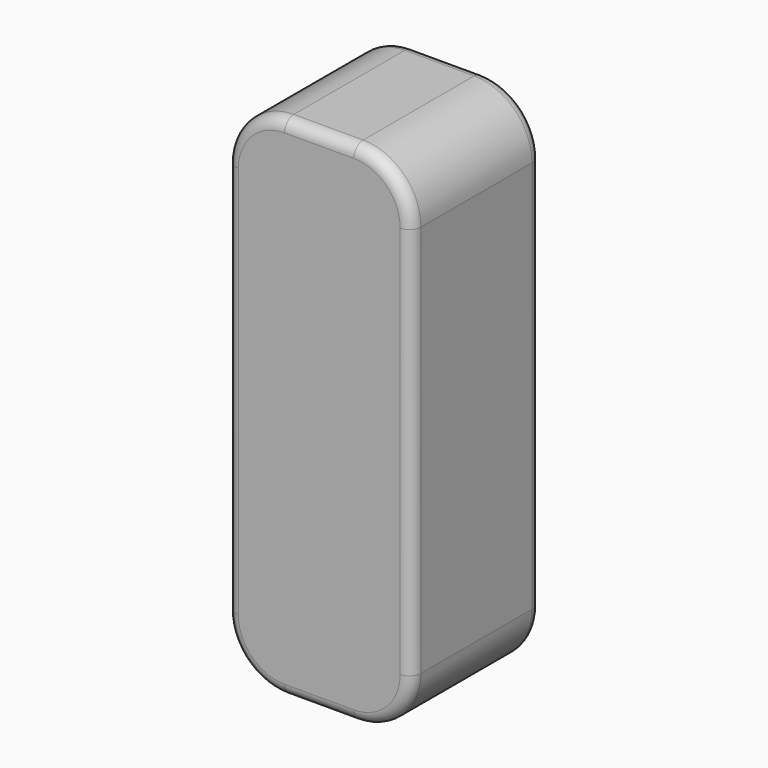
from build123d import *

# Parameters (mm, degrees)
F1_DEPTH = 44.45
F2_R     = 3.175


with BuildPart() as f1:
    # F0 (on Front) → F1 (new body)
    with BuildSketch(Plane.XZ):
        with BuildLine():
            ThreePointArc((25.4, 53.975), (20.75032, 65.20032), (9.525, 69.85))
            Line((9.525, 69.85), (-9.525, 69.85))
            ThreePointArc((-9.525, 69.85), (-20.75032, 65.20032), (-25.4, 53.975))
            Line((-25.4, 53.975), (-25.4, -53.975))
            ThreePointArc((-25.4, -53.975), (-20.75032, -65.20032), (-9.525, -69.85))
            Line((-9.525, -69.85), (9.525, -69.85))
            ThreePointArc((9.525, -69.85), (20.75032, -65.20032), (25.4, -53.975))
            Line((25.4, -53.975), (25.4, 53.975))
        make_face()
    extrude(amount=F1_DEPTH)

    # F2
    f2_edges = [f1.edges().sort_by_distance(p)[0] for p in [
        (20.75032, -44.45, 65.20032),
        (0, -44.45, 69.85),
        (-20.75032, -44.45, 65.20032),
        (25.4, -44.45, 0),
        (20.75032, -44.45, -65.20032),
        (0, -44.45, -69.85),
        (-20.75032, -44.45, -65.20032),
        (-25.4, -44.45, 0),
        (20.75032, 0, 65.20032),
        (25.4, 0, 0),
        (20.75032, 0, -65.20032),
        (0, 0, 69.85),
        (-20.75032, 0, 65.20032),
        (0, 0, -69.85),
        (-20.75032, 0, -65.20032),
        (-25.4, 0, 0),
    ]]
    fillet(f2_edges, radius=F2_R)


solid = f1.part
